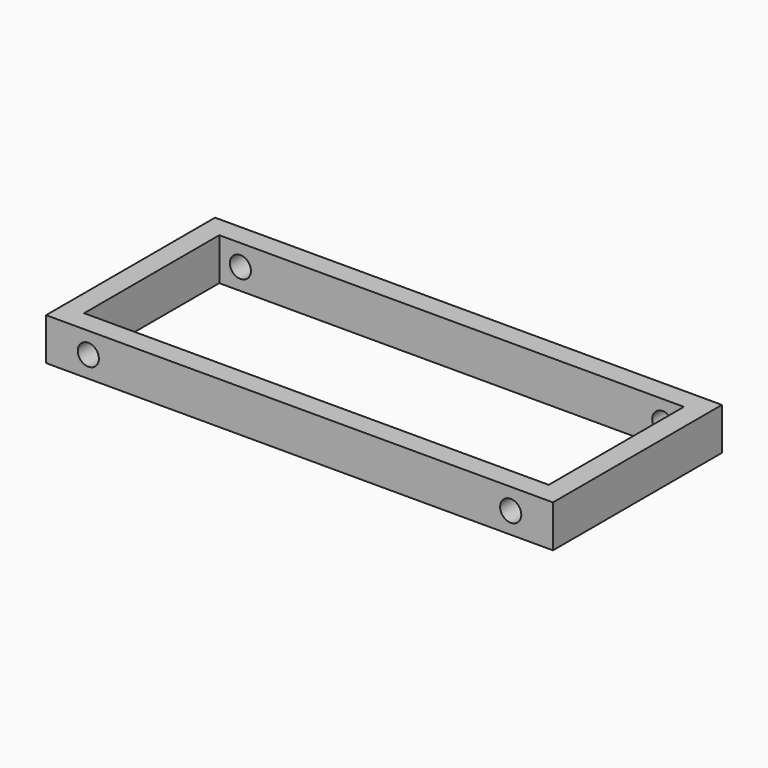
from build123d import *

# Parameters (mm, degrees)
F0_W          = 1200
F0_H          = 500
F0_W_2        = 1100
F0_H_2        = 400
F1_DEPTH      = 50
F2_R          = 25
F3_DEPTH      = 250.001
F3_DEPTH_BACK = 250.001


with BuildPart() as f1:
    # F0 (on Top) → F1 (new body, symmetric)
    with BuildSketch(Plane.XY):
        Rectangle(F0_W, F0_H)
        Rectangle(F0_W_2, F0_H_2, mode=Mode.SUBTRACT)
    extrude(amount=F1_DEPTH, both=True)

    # F2 (on Front) → F3 (cut, two sides)
    with BuildSketch(Plane.XZ) as f3_sk:
        with Locations((-500, 0)):
            Circle(F2_R)
        with BuildLine():
            ThreePointArc((525, 0), (500, 25), (475, 0))
            ThreePointArc((475, 0), (500, -25), (525, 0))
        make_face()
    extrude(amount=-F3_DEPTH, mode=Mode.SUBTRACT)
    extrude(f3_sk.sketch, amount=F3_DEPTH_BACK, mode=Mode.SUBTRACT)


solid = f1.part
